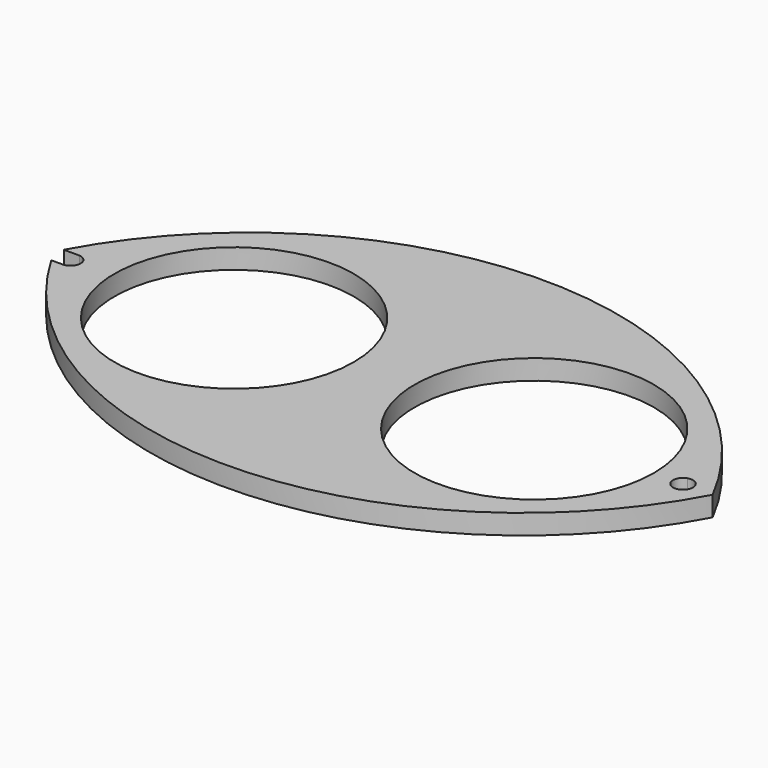
from build123d import *

# Parameters (mm, degrees)
F0_R     = 38.1
F1_DEPTH = 6.35


with BuildPart() as f1:
    # F0 (on Top) → F1 (new body)
    with BuildSketch(Plane.XY):
        with BuildLine():
            ThreePointArc((-103.308153, -4.15721), (1.53508, -63.048307), (103.932226, 0))
            ThreePointArc((103.932226, 0), (0.417267, 63.927117), (-104.441292, 2.228608))
            Line((-104.441292, 2.228608), (-99.504762, 2.228608))
            ThreePointArc((-99.504762, 2.228608), (-97.844874, 1.632635), (-96.759092, 0.242853))
            ThreePointArc((-96.759092, 0.242853), (-2.430381, 58.137719), (93.553649, 3.030668))
            ThreePointArc((93.553649, 3.030668), (96.380981, 2.557875), (97.67505, 0))
            ThreePointArc((97.67505, 0), (96.380981, -2.557875), (93.553649, -3.030668))
            ThreePointArc((93.553649, -3.030668), (-2.200222, -58.140846), (-96.543808, -0.649775))
            ThreePointArc((-96.543808, -0.649775), (-97.347648, -3.066327), (-99.668539, -4.114824))
            Line((-99.668539, -4.114824), (-103.308153, -4.15721))
        make_face()
        with BuildLine():
            ThreePointArc((93.553649, 3.030668), (-2.430381, 58.137719), (-96.759092, 0.242853))
            ThreePointArc((-96.759092, 0.242853), (-96.619011, -0.195637), (-96.543808, -0.649775))
            ThreePointArc((-96.543808, -0.649775), (-2.200222, -58.140846), (93.553649, -3.030668))
            ThreePointArc((93.553649, -3.030668), (91.32505, 0), (93.553649, 3.030668))
        make_face()
        with Locations((-48.425993, 0)):
            Circle(F0_R, mode=Mode.SUBTRACT)
        with Locations((47.130458, 0)):
            Circle(F0_R, mode=Mode.SUBTRACT)
    extrude(amount=F1_DEPTH)


solid = f1.part
